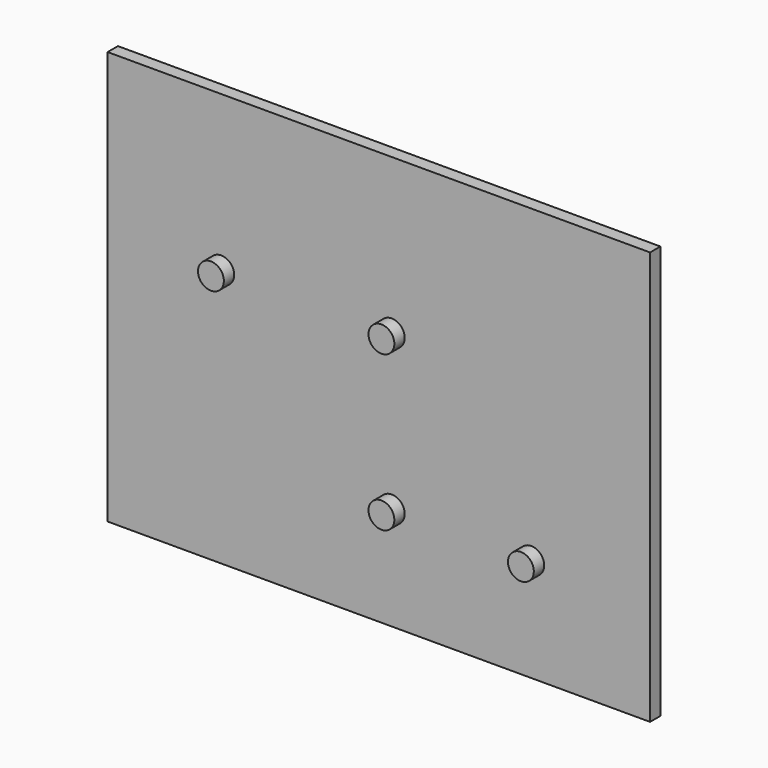
from build123d import *

# Parameters (mm, degrees)
F0_W     = 210
F0_H     = 160
F1_DEPTH = 5
F2_R     = 5
F3_DEPTH = 5


with BuildPart() as f1:
    # F0 (on Front) → F1 (new body)
    with BuildSketch(Plane.XZ):
        with Locations((-5, -20)):
            Rectangle(F0_W, F0_H)
    extrude(amount=F1_DEPTH)

    # F2 (on face) → F3 (join)
    with BuildSketch(Plane.XZ.offset(5)):
        Circle(F2_R)
        with Locations((0, -60)):
            Circle(F2_R)
        with Locations((54, -60)):
            Circle(F2_R)
        with Locations((-66, 0)):
            Circle(F2_R)
    extrude(amount=F3_DEPTH)


solid = f1.part
